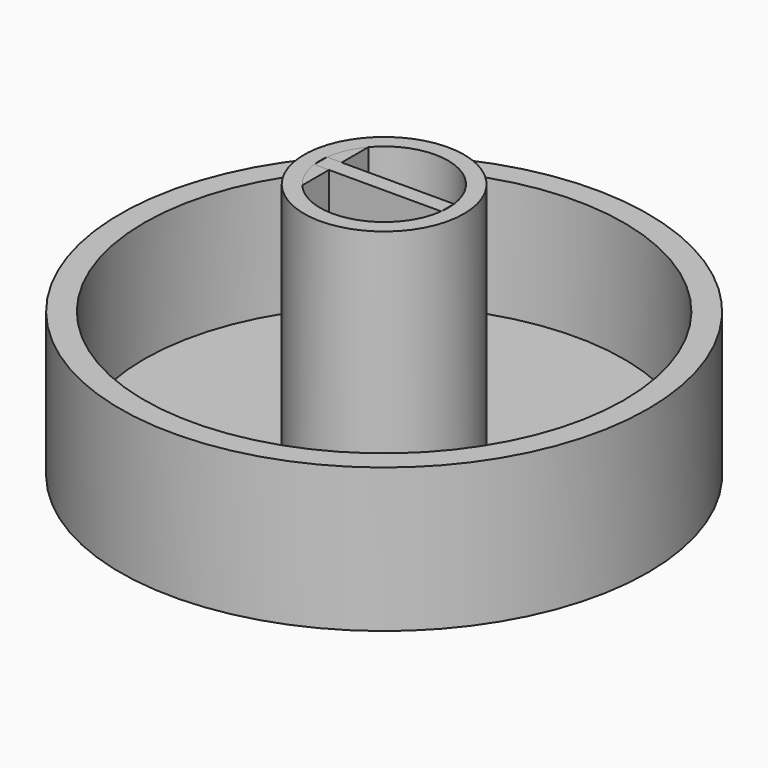
from build123d import *

# Parameters (mm, degrees)
F0_R     = 15
F0_R_2   = 5
F1_DEPTH = 1.5
F0_R_3   = 16.5
F2_DEPTH = 9
F3_DEPTH = 16
F0_W     = 0.9195400787
F0_H     = 1
F0_W_2   = 7.0177138545
F4_DEPTH = 16
F5_R     = 1.518718607
F6_DEPTH = 0.7


with BuildPart() as f1:
    # F0 (on Top) → F1 (new body)
    with BuildSketch(Plane.XY):
        Circle(F0_R)
        Circle(F0_R_2, mode=Mode.SUBTRACT)
    extrude(amount=F1_DEPTH)

    # F0 (on Top) → F2 (join)
    with BuildSketch(Plane.XY):
        Circle(F0_R_3)
        Circle(F0_R, mode=Mode.SUBTRACT)
    extrude(amount=F2_DEPTH)

    # F5 (on face) → F6 (cut)
    with BuildSketch(Plane(origin=(0, 0, 0), x_dir=(1, 0, 0), z_dir=(0, 0, -1))):
        with Locations((0, -12.6772308722)):
            Circle(F5_R)
    extrude(amount=-F6_DEPTH, mode=Mode.SUBTRACT)


with BuildPart() as f1b:
    # F0 (on Top) → F1, piece 2 (new body)
    with BuildSketch(Plane.XY):
        with BuildLine():
            Line((-3.0490868879, 0.5), (-3.0490868879, 2.5890286113))
            ThreePointArc((-3.0490868879, 2.5890286113), (-3.661022681, 1.6114940054), (-3.9686269666, 0.5))
            Line((-3.9686269666, 0.5), (-3.0490868879, 0.5))
        make_face()
        with BuildLine():
            Line((-3.0490868879, 0.5), (3.9686269666, 0.5))
            ThreePointArc((3.9686269666, 0.5), (1.1412268065, 3.8337450849), (-3.0490868879, 2.5890286113))
            Line((-3.0490868879, 2.5890286113), (-3.0490868879, 0.5))
        make_face()
    extrude(amount=F1_DEPTH)


with BuildPart() as f1c:
    # F0 (on Top) → F1, piece 3 (new body)
    with BuildSketch(Plane.XY):
        with BuildLine():
            ThreePointArc((-3.9686269666, -0.5), (-3.661022681, -1.6114940054), (-3.0490868879, -2.5890286113))
            Line((-3.0490868879, -2.5890286113), (-3.0490868879, -0.5))
            Line((-3.0490868879, -0.5), (-3.9686269666, -0.5))
        make_face()
        with BuildLine():
            ThreePointArc((-3.0490868879, -2.5890286113), (1.1412268065, -3.8337450849), (3.9686269666, -0.5))
            Line((3.9686269666, -0.5), (-3.0490868879, -0.5))
            Line((-3.0490868879, -0.5), (-3.0490868879, -2.5890286113))
        make_face()
    extrude(amount=F1_DEPTH)


with BuildPart() as f3:
    # F0 (on Top) → F3 (new body)
    with BuildSketch(Plane.XY):
        Circle(F0_R_2)
        with BuildLine():
            ThreePointArc((3.9686269666, 0.5), (3.9921490369, 0.2504916502), (4, 0))
            ThreePointArc((4, 0), (3.9921490369, -0.2504916502), (3.9686269666, -0.5))
            ThreePointArc((3.9686269666, -0.5), (1.1412268065, -3.8337450849), (-3.0490868879, -2.5890286113))
            ThreePointArc((-3.0490868879, -2.5890286113), (-3.661022681, -1.6114940054), (-3.9686269666, -0.5))
            ThreePointArc((-3.9686269666, -0.5), (-4, 0), (-3.9686269666, 0.5))
            ThreePointArc((-3.9686269666, 0.5), (-3.661022681, 1.6114940054), (-3.0490868879, 2.5890286113))
            ThreePointArc((-3.0490868879, 2.5890286113), (1.1412268065, 3.8337450849), (3.9686269666, 0.5))
        make_face(mode=Mode.SUBTRACT)
    extrude(amount=F3_DEPTH)


with BuildPart() as f3b:
    # F0 (on Top) → F3, piece 2 (new body)
    with BuildSketch(Plane.XY):
        with Locations((-3.5088569272, 0)):
            Rectangle(F0_W, F0_H)
        with Locations((0.4597700394, 0)):
            Rectangle(F0_W_2, F0_H)
    extrude(amount=F3_DEPTH)


with BuildPart() as f4:
    # F0 (on Top) → F4 (new body)
    with BuildSketch(Plane.XY):
        with BuildLine():
            Line((-3.0490868879, 0.5), (-3.0490868879, 2.5890286113))
            ThreePointArc((-3.0490868879, 2.5890286113), (-3.661022681, 1.6114940054), (-3.9686269666, 0.5))
            Line((-3.9686269666, 0.5), (-3.0490868879, 0.5))
        make_face()
    extrude(amount=F4_DEPTH)


with BuildPart() as f4b:
    # F0 (on Top) → F4, piece 2 (new body)
    with BuildSketch(Plane.XY):
        with BuildLine():
            ThreePointArc((-3.9686269666, -0.5), (-3.661022681, -1.6114940054), (-3.0490868879, -2.5890286113))
            Line((-3.0490868879, -2.5890286113), (-3.0490868879, -0.5))
            Line((-3.0490868879, -0.5), (-3.9686269666, -0.5))
        make_face()
    extrude(amount=F4_DEPTH)


solid = Compound([f1.part, f1b.part, f1c.part, f3.part, f3b.part, f4.part, f4b.part])
